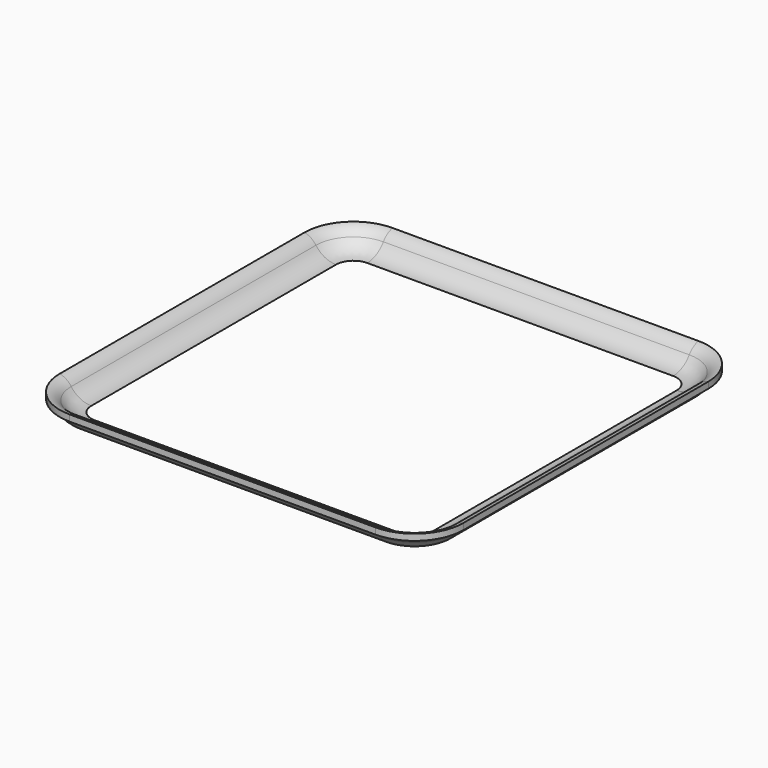
from build123d import *

# Parameters (mm, degrees)
F1_DEPTH = 25
F4_COUNT = 4
F6_ANGLE = 90
F8_COUNT = 4


with BuildPart() as f1:
    # F0 (on Front) → F1 (new body, symmetric)
    with BuildSketch(Plane.XZ):
        with BuildLine():
            ThreePointArc((-27.838012214, 2), (-29.6896524135, 2.4543789583), (-31.1206194405, 3.7142857143))
            ThreePointArc((-31.1206194405, 3.7142857143), (-31.9410332681, 4.5110438468), (-33, 4.9428908461))
            Line((-33, 4.9428908461), (-33, 3.9132711601))
            ThreePointArc((-33, 3.9132711601), (-32.40580245, 3.6171600706), (-31.9412712472, 3.1428571429))
            ThreePointArc((-31.9412712472, 3.1428571429), (-31.4353171545, 2.5273357254), (-30.838012214, 2))
            Line((-30.838012214, 2), (-27.838012214, 2))
        make_face()
    extrude(amount=F1_DEPTH, both=True)


with BuildPart() as f2_1:
    # F2: instance of F1
    add(f1.part.mirror(Plane.YZ))


with BuildPart() as f1_1:
    add(f1.part)

    add(f2_1.part)  # F4 merges F2_1
    # F4: F1, F2_1 ×4 about axis
    f4_axis = Axis((0, 0, 8.481499739), (0, 0, 1))
    for i in range(1, F4_COUNT):
        add(f1.part.rotate(f4_axis, i * 360 / F4_COUNT))
        add(f2_1.part.rotate(f4_axis, i * 360 / F4_COUNT))

    # F4_face (on face) → F6 (revolve)
    with BuildSketch(Plane(origin=(25, -31.316775031, 3.2677689392), x_dir=(0, 1, 0), z_dir=(1, 0, 0))):
        with BuildLine():
            Line((0.478762817, -1.2677689392), (3.478762817, -1.2677689392))
            ThreePointArc((3.478762817, -1.2677689392), (1.6271226175, -0.8133899809), (0.1961555904, 0.4465167751))
            ThreePointArc((0.1961555904, 0.4465167751), (-0.6242582371, 1.2432749076), (-1.683224969, 1.6751219069))
            Line((-1.683224969, 1.6751219069), (-1.683224969, 0.6455022209))
            ThreePointArc((-1.683224969, 0.6455022209), (-1.0890274191, 0.3493911314), (-0.6244962162, -0.1249117963))
            ThreePointArc((-0.6244962162, -0.1249117963), (-0.1185421236, -0.7404332138), (0.478762817, -1.2677689392))
        make_face()
    revolve(axis=Axis((25, -25, -0.1814401951), (0, 0, 1)), revolution_arc=F6_ANGLE)

    # F8: F1 ×4 about axis
    f8_axis = Axis((0, 0, 7.3843663558), (0, 0, 1))


with BuildPart() as f1_2:
    add(f1_1.part)
    for i in range(1, F8_COUNT):
        add(f1_1.part.rotate(f8_axis, i * 360 / F8_COUNT))


solid = f1_2.part
